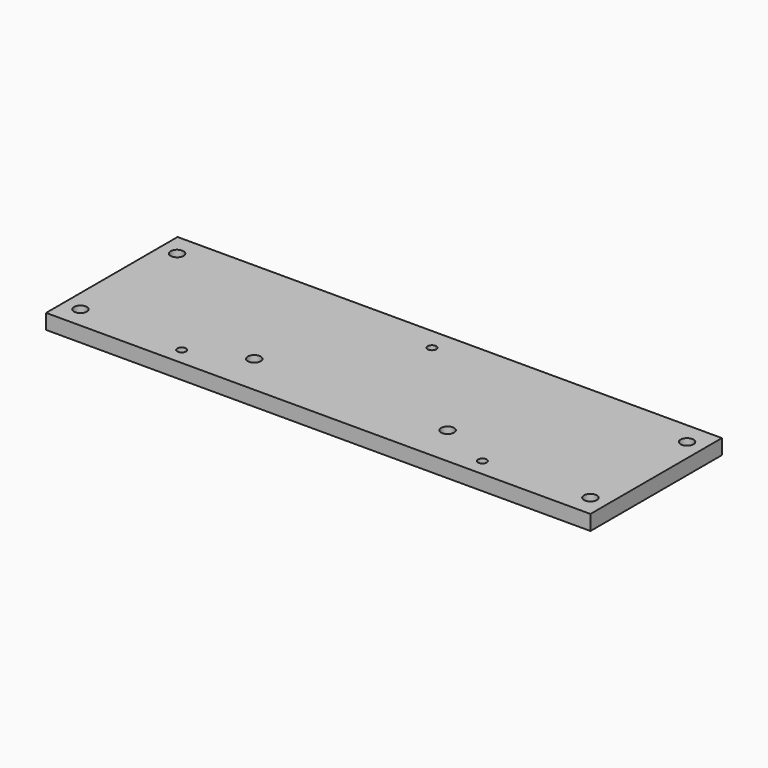
from build123d import *

# Parameters (mm, degrees)
SKETCH_W      = 126.7
SKETCH_H      = 76.5
PAD_DEPTH     = 7
SKETCH001_R   = 2
SKETCH001_R_2 = 3
POCKET_DEPTH  = 50


with BuildPart() as pocket:
    # Sketch → Pad (new body)
    with BuildSketch(Plane.XY):
        with Locations((63.35, 38.25)):
            Rectangle(SKETCH_W, SKETCH_H)
    extrude(amount=PAD_DEPTH)

    # Sketch001 → Pocket (cut)
    with BuildSketch(Plane.XY.offset(7)):
        with Locations((0, 66.2)):
            Circle(SKETCH001_R)
        with Locations((70, 8)):
            Circle(SKETCH001_R)
        with Locations((118.7, 66.2)):
            Circle(SKETCH001_R_2)
        with Locations((118.7, 10)):
            Circle(SKETCH001_R_2)
        with Locations((45, 19)):
            Circle(SKETCH001_R_2)
    extrude(amount=-POCKET_DEPTH, mode=Mode.SUBTRACT)


with BuildPart() as fusion:
    # Part__Mirroring: instance of Pocket
    add(pocket.part.mirror(Plane(origin=(0, 0, 0), x_dir=(0, -1, 0), z_dir=(1, 0, 0))))

    # Fusion: union Pocket
    add(pocket.part)


solid = fusion.part
